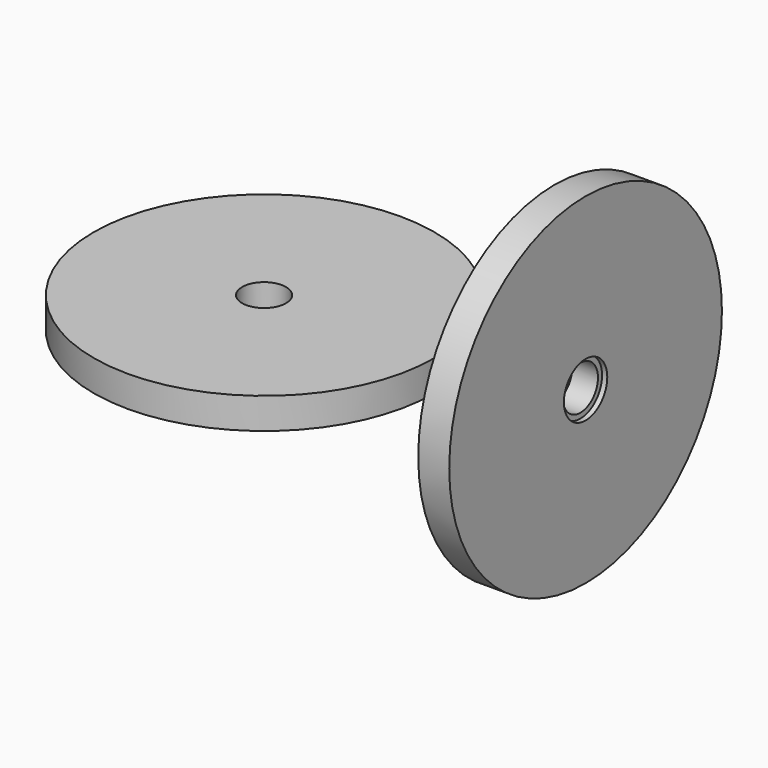
from build123d import *

# Parameters (mm, degrees)
F0_R     = 209.55
F0_R_2   = 26.9875
F1_DEPTH = 38.1


with BuildPart() as f1:
    # F0 (on Top) → F1 (new body)
    with BuildSketch(Plane.XY):
        Circle(F0_R)
        Circle(F0_R_2, mode=Mode.SUBTRACT)
    extrude(amount=F1_DEPTH)


with BuildPart() as f3:
    # F2 (on Top) → F3 (revolve)
    with BuildSketch(Plane.XY):
        Polygon((280.131588, 276.402519), (280.131588, 123.309736), (311.881588, 123.309736), (311.881588, 129.659736), (318.231588, 129.659736), (318.231588, 276.402519), (318.231588, 305.872236), (280.131588, 305.872236), align=None)
    revolve(axis=Axis((309.918866, 96.322236, 0), (1, 0, 0)))


solid = Compound([f1.part, f3.part])
